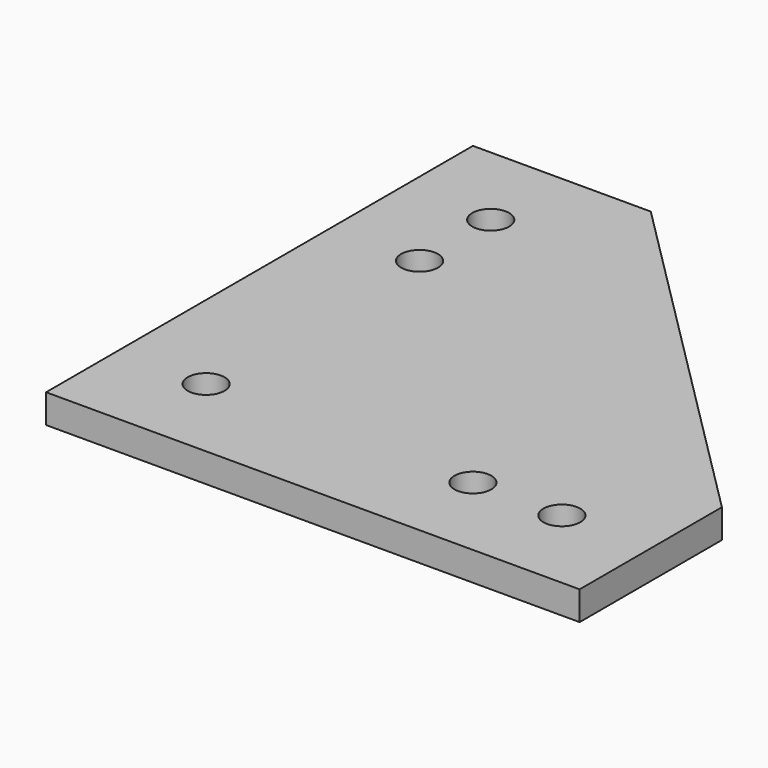
from build123d import *

# Parameters (mm, degrees)
F1_DEPTH = 6.5
F3_D     = 8.3


with BuildPart() as f1:
    # F0 (on Top) → F1 (new body)
    with BuildSketch(Plane.XY):
        Polygon((100, 20), (20, 100), (-20, 100), (-20, -20), (100, -20), align=None)
    extrude(amount=F1_DEPTH)

    # F3 (through all)
    with Locations(Plane.XY.offset(6.5)):
        with Locations((0, 80), (0, 60), (0, 0), (60, 0), (80, 0)):
            Hole(F3_D / 2)


solid = f1.part
